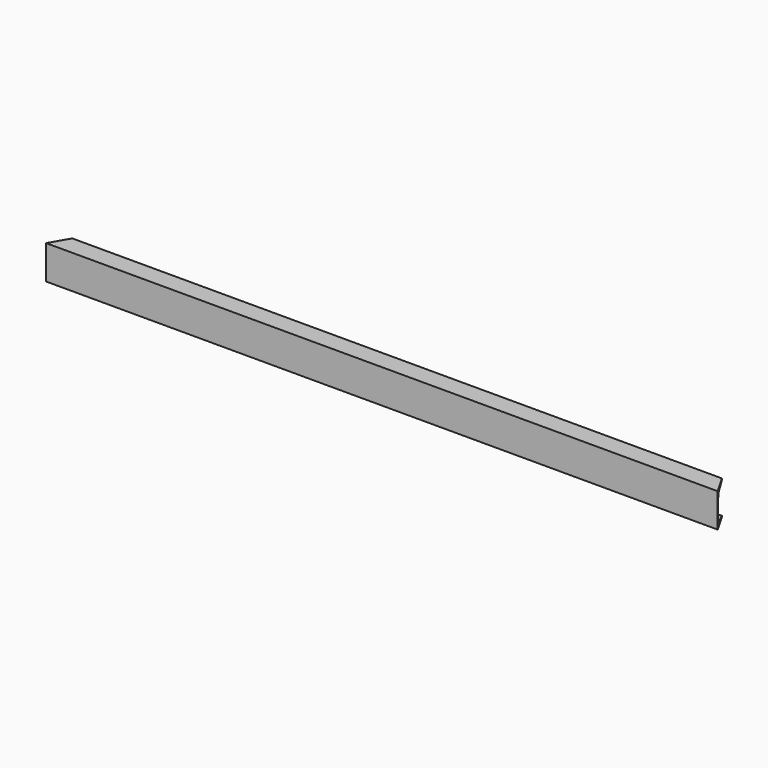
from build123d import *

# Parameters (mm, degrees)
F2_DEPTH = 794.5
F4_DEPTH = 80


with BuildPart() as f2:
    # F1 (on Right) → F2 (new body, symmetric)
    with BuildSketch(Plane.YZ):
        with BuildLine():
            Line((0, 80), (0, 40))
            Line((0, 40), (6, 40))
            Line((6, 40), (6, 63))
            ThreePointArc((6, 63), (8.185015, 68.878434), (13.679108, 71.902541))
            Line((13.679108, 71.902541), (41.587063, 76.043315))
            ThreePointArc((41.587063, 76.043315), (44.028882, 77.387363), (45, 80))
            Line((45, 80), (0, 80))
        make_face()
        with BuildLine():
            Line((6, 40), (0, 40))
            Line((0, 40), (0, 0))
            Line((0, 0), (45, 0))
            ThreePointArc((45, 0), (44.028882, 2.612637), (41.587063, 3.956685))
            Line((41.587063, 3.956685), (13.679108, 8.097459))
            ThreePointArc((13.679108, 8.097459), (8.185015, 11.121566), (6, 17))
            Line((6, 17), (6, 40))
        make_face()
    extrude(amount=F2_DEPTH, both=True)

    # F3 (on face) → F4 (cut, through all)
    with BuildSketch(Plane.XY.offset(80)):
        Polygon((-768.519238, 45), (-794.5, 45), (-794.5, 0), align=None)
        Polygon((794.5, 45), (768.519238, 45), (794.5, 0), align=None)
    extrude(amount=-F4_DEPTH, mode=Mode.SUBTRACT)


solid = f2.part
